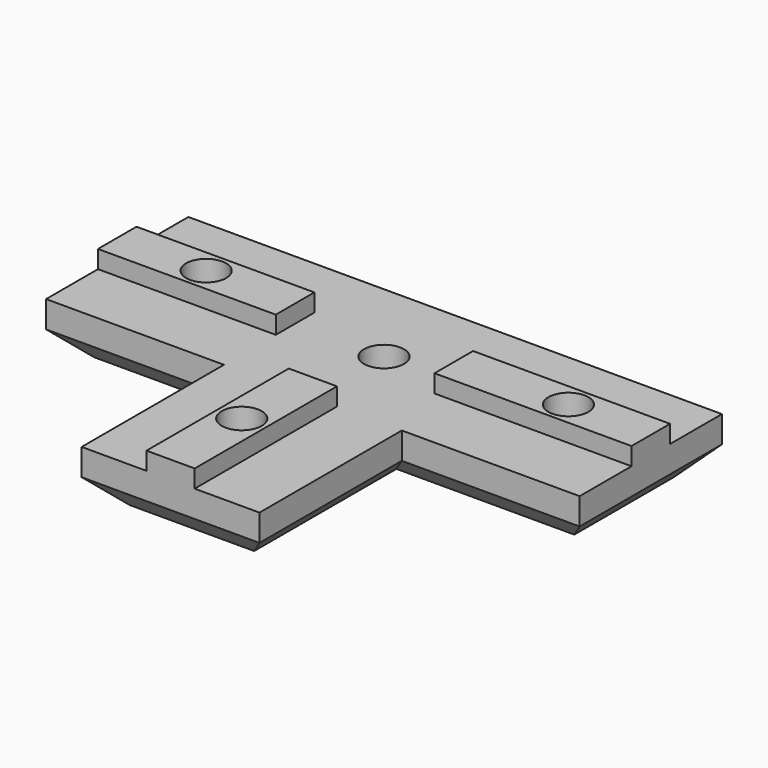
from build123d import *

# Parameters (mm, degrees)
F1_DEPTH = 6
F2_W     = 20
F2_H     = 5.42
F3_DEPTH = 2
F4_R     = 2.25
F5_DEPTH = 8.001
F6_R     = 3.75
F7_DEPTH = 2
F8_SIZE  = 3


with BuildPart() as f1:
    # F0 (on Top) → F1 (new body)
    with BuildSketch(Plane.XY):
        Polygon((-30, 0), (-10, 0), (-10, -20), (0, -20), (10, -20), (10, 0), (30, 0), (30, 20), (0, 20), (-30, 20), align=None)
    extrude(amount=F1_DEPTH)

    # F2 (on face) → F3 (join)
    with BuildSketch(Plane.XY.offset(6)):
        Polygon((2.71, 0), (0, 0), (-2.71, 0), (-2.71, -20), (2.71, -20), align=None)
        Polygon((7.845558, 12.71), (7.845558, 10), (7.845558, 7.29), (30, 7.29), (30, 12.71), align=None)
        with Locations((-20, 10)):
            Rectangle(F2_W, F2_H)
    extrude(amount=F3_DEPTH)

    # F4 (on face) → F5 (cut, through all)
    with BuildSketch(Plane(origin=(0, 0, 0), x_dir=(1, 0, 0), z_dir=(0, 0, -1))):
        with Locations((-20, -10)):
            Circle(F4_R)
        with Locations((0, -10)):
            Circle(F4_R)
        with Locations((0, 10)):
            Circle(F4_R)
        with Locations((20.741304, -10)):
            Circle(F4_R)
    extrude(amount=-F5_DEPTH, mode=Mode.SUBTRACT)

    # F6 (on face) → F7 (cut)
    with BuildSketch(Plane(origin=(0, 0, 0), x_dir=(1, 0, 0), z_dir=(0, 0, -1))):
        with Locations((0, 10)):
            Circle(F6_R)
        with Locations((0, -10)):
            Circle(F6_R)
        with Locations((20.741304, -10)):
            Circle(F6_R)
        with Locations((-20, -10)):
            Circle(F6_R)
    extrude(amount=-F7_DEPTH, mode=Mode.SUBTRACT)

    # F8
    f8_edges = [f1.edges().sort_by_distance(p)[0] for p in [
        (-10, -10, 0),
        (-20, 0, 0),
        (10, -10, 0),
        (20, 0, 0),
        (0, 20, 0),
        (30, 10, 0),
        (-30, 10, 0),
        (0, -20, 0),
    ]]
    chamfer(f8_edges, length=F8_SIZE)


solid = f1.part
